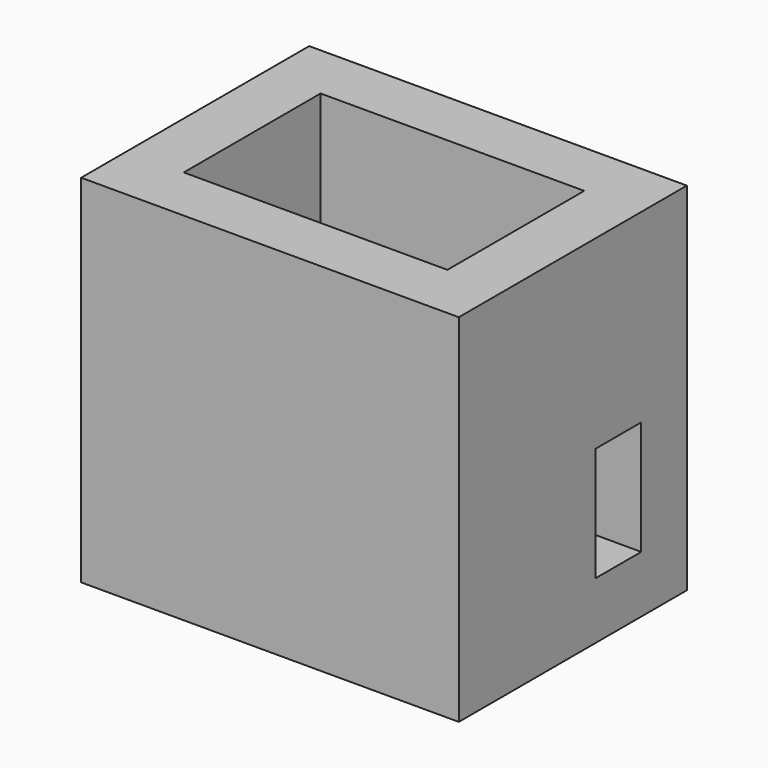
from build123d import *

# Parameters (mm, degrees)
F0_W     = 53
F0_H     = 40
F1_DEPTH = 50
F2_W     = 37
F2_H     = 24
F3_DEPTH = 42
F4_W     = 8
F4_H     = 16
F5_DEPTH = 8


with BuildPart() as f1:
    # F0 (on Top) → F1 (new body)
    with BuildSketch(Plane.XY):
        with Locations((26.5, 20)):
            Rectangle(F0_W, F0_H)
    extrude(amount=F1_DEPTH)

    # F2 (on face) → F3 (cut)
    with BuildSketch(Plane.XY.offset(50)):
        with Locations((26.5, 20)):
            Rectangle(F2_W, F2_H)
    extrude(amount=-F3_DEPTH, mode=Mode.SUBTRACT)

    # F4 (on face) → F5 (cut, through all)
    with BuildSketch(Plane.YZ.offset(53)):
        with Locations((28, 16)):
            Rectangle(F4_W, F4_H)
    extrude(amount=-F5_DEPTH, mode=Mode.SUBTRACT)


solid = f1.part
